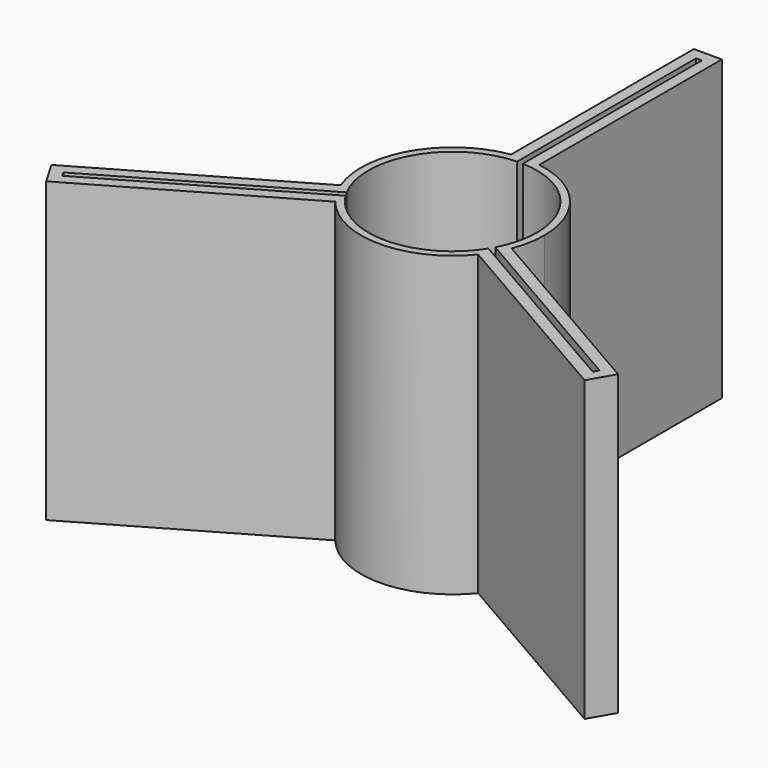
from build123d import *

# Parameters (mm, degrees)
F1_DEPTH = 101.6


with BuildPart() as f1:
    # F0 (on Top) → F1 (new body)
    with BuildSketch(Plane.XY):
        with BuildLine():
            ThreePointArc((-25.3311799058, -13.495781881), (-24.8566611394, 14.351), (-0.9779, 28.6853362468))
            Line((-0.9779, 28.6853362468), (-0.9779, 30.8729424835))
            Line((-0.9779, 30.8729424835), (-4.7879, 30.8729424835))
            ThreePointArc((-4.7879, 30.8729424835), (-27.056365665, 15.621), (-29.1307024803, -11.290028211))
            Line((-29.1307024803, -11.290028211), (-27.2257024803, -14.5895849994))
            Line((-27.2257024803, -14.5895849994), (-25.3311799058, -13.495781881))
        make_face()
        with BuildLine():
            ThreePointArc((0.9779, 28.6853362468), (20.6382229104, 19.9466428027), (28.702, 0))
            ThreePointArc((28.702, 0), (27.8465467308, -6.9551879322), (25.3311799058, -13.495781881))
            Line((25.3311799058, -13.495781881), (27.2257024803, -14.5895849994))
            Line((27.2257024803, -14.5895849994), (29.1307024803, -11.290028211))
            ThreePointArc((29.1307024803, -11.290028211), (30.7096399433, -5.742871978), (31.242, 0))
            ThreePointArc((31.242, 0), (23.723892343, 20.3282929952), (4.7879, 30.8729424835))
            Line((4.7879, 30.8729424835), (0.9779, 30.8729424835))
            Line((0.9779, 30.8729424835), (0.9779, 28.6853362468))
        make_face()
        with BuildLine():
            Line((0.9779, 104.8853362468), (0.9779, 31.226691717))
            ThreePointArc((0.9779, 31.226691717), (2.8883207994, 31.1082009599), (4.7879, 30.8729424835))
            Line((4.7879, 30.8729424835), (4.7879, 108.6953362468))
            Line((4.7879, 108.6953362468), (-4.7879, 108.6953362468))
            Line((-4.7879, 108.6953362468), (-4.7879, 30.8729424835))
            ThreePointArc((-4.7879, 30.8729424835), (-2.8883207994, 31.1082009599), (-0.9779, 31.226691717))
            Line((-0.9779, 31.226691717), (-0.9779, 104.8853362468))
            Line((-0.9779, 104.8853362468), (0.9779, 104.8853362468))
        make_face()
        with BuildLine():
            Line((26.2478024803, -16.2833574841), (24.3532799058, -15.1895543657))
            ThreePointArc((24.3532799058, -15.1895543657), (0, -28.702), (-24.3532799058, -15.1895543657))
            Line((-24.3532799058, -15.1895543657), (-26.2478024803, -16.2833574841))
            Line((-26.2478024803, -16.2833574841), (-24.3428024803, -19.5829142725))
            ThreePointArc((-24.3428024803, -19.5829142725), (0, -31.242), (24.3428024803, -19.5829142725))
            Line((24.3428024803, -19.5829142725), (26.2478024803, -16.2833574841))
        make_face()
        with BuildLine():
            ThreePointArc((29.1307024803, -11.290028211), (28.384652697, -13.0527412934), (27.5320583031, -14.7664596162))
            Line((27.5320583031, -14.7664596162), (91.3223156742, -51.595781881))
            Line((91.3223156742, -51.595781881), (90.3444156742, -53.2895543657))
            Line((90.3444156742, -53.2895543657), (26.5541583031, -16.4602321009))
            ThreePointArc((26.5541583031, -16.4602321009), (25.4963318976, -18.0554596665), (24.3428024803, -19.5829142725))
            Line((24.3428024803, -19.5829142725), (91.7389724626, -58.4941111542))
            Line((91.7389724626, -58.4941111542), (96.5268724626, -50.2012250926))
            Line((96.5268724626, -50.2012250926), (29.1307024803, -11.290028211))
        make_face()
        with BuildLine():
            Line((-91.3223156742, -51.595781881), (-27.5320583031, -14.7664596162))
            ThreePointArc((-27.5320583031, -14.7664596162), (-28.384652697, -13.0527412934), (-29.1307024803, -11.290028211))
            Line((-29.1307024803, -11.290028211), (-96.5268724626, -50.2012250926))
            Line((-96.5268724626, -50.2012250926), (-91.7389724626, -58.4941111542))
            Line((-91.7389724626, -58.4941111542), (-24.3428024803, -19.5829142725))
            ThreePointArc((-24.3428024803, -19.5829142725), (-25.4963318976, -18.0554596665), (-26.5541583031, -16.4602321009))
            Line((-26.5541583031, -16.4602321009), (-90.3444156742, -53.2895543657))
            Line((-90.3444156742, -53.2895543657), (-91.3223156742, -51.595781881))
        make_face()
        with BuildLine():
            Line((0.9779, 31.226691717), (0.9779, 30.8729424835))
            Line((0.9779, 30.8729424835), (4.7879, 30.8729424835))
            ThreePointArc((4.7879, 30.8729424835), (2.8883207994, 31.1082009599), (0.9779, 31.226691717))
        make_face()
        with BuildLine():
            Line((-4.7879, 30.8729424835), (-0.9779, 30.8729424835))
            Line((-0.9779, 30.8729424835), (-0.9779, 31.226691717))
            ThreePointArc((-0.9779, 31.226691717), (-2.8883207994, 31.1082009599), (-4.7879, 30.8729424835))
        make_face()
        with BuildLine():
            Line((29.1307024803, -11.290028211), (27.2257024803, -14.5895849994))
            Line((27.2257024803, -14.5895849994), (27.5320583031, -14.7664596162))
            ThreePointArc((27.5320583031, -14.7664596162), (28.384652697, -13.0527412934), (29.1307024803, -11.290028211))
        make_face()
        with BuildLine():
            Line((26.5541583031, -16.4602321009), (26.2478024803, -16.2833574841))
            Line((26.2478024803, -16.2833574841), (24.3428024803, -19.5829142725))
            ThreePointArc((24.3428024803, -19.5829142725), (25.4963318976, -18.0554596665), (26.5541583031, -16.4602321009))
        make_face()
        with BuildLine():
            Line((-24.3428024803, -19.5829142725), (-26.2478024803, -16.2833574841))
            Line((-26.2478024803, -16.2833574841), (-26.5541583031, -16.4602321009))
            ThreePointArc((-26.5541583031, -16.4602321009), (-25.4963318976, -18.0554596665), (-24.3428024803, -19.5829142725))
        make_face()
        with BuildLine():
            Line((-27.5320583031, -14.7664596162), (-27.2257024803, -14.5895849994))
            Line((-27.2257024803, -14.5895849994), (-29.1307024803, -11.290028211))
            ThreePointArc((-29.1307024803, -11.290028211), (-28.384652697, -13.0527412934), (-27.5320583031, -14.7664596162))
        make_face()
    extrude(amount=F1_DEPTH)


solid = f1.part
